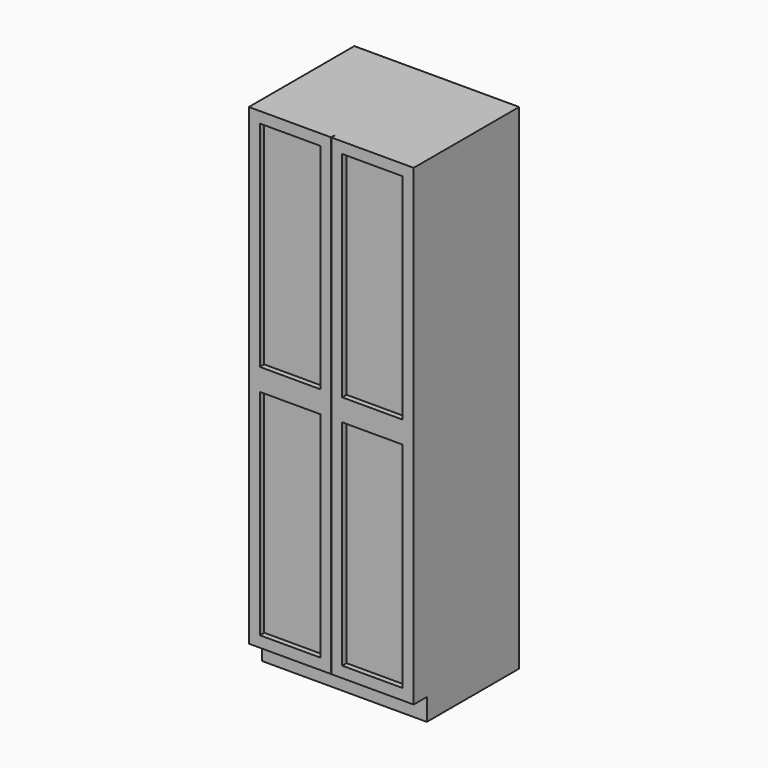
from build123d import *

# Parameters (mm, degrees)
F0_W     = 762
F0_H     = 609.6
F1_DEPTH = 2286
F2_W     = 762
F2_H     = 101.6
F3_DEPTH = 76.2
F4_W     = 279.4
F4_H     = 990.6
F4_W_2   = 1.27
F4_H_2   = 2184.4
F5_DEPTH = 25.4


with BuildPart() as f1:
    # F0 (on Top) → F1 (new body)
    with BuildSketch(Plane.XY):
        with Locations((76.2, 0)):
            Rectangle(F0_W, F0_H)
    extrude(amount=F1_DEPTH)

    # F2 (on face) → F3 (cut)
    with BuildSketch(Plane.XZ.offset(304.8)):
        with Locations((76.2, 50.8)):
            Rectangle(F2_W, F2_H)
    extrude(amount=-F3_DEPTH, mode=Mode.SUBTRACT)

    # F4 (on face) → F5 (cut)
    with BuildSketch(Plane.XZ.offset(304.8)):
        with Locations((-114.3, 1739.9)):
            Rectangle(F4_W, F4_H)
        with Locations((266.7, 1739.9)):
            Rectangle(F4_W, F4_H)
        with Locations((266.7, 647.7)):
            Rectangle(F4_W, F4_H)
        with Locations((-114.3, 647.7)):
            Rectangle(F4_W, F4_H)
        with Locations((76.2, 1193.8)):
            Rectangle(F4_W_2, F4_H_2)
    extrude(amount=-F5_DEPTH, mode=Mode.SUBTRACT)


solid = f1.part
